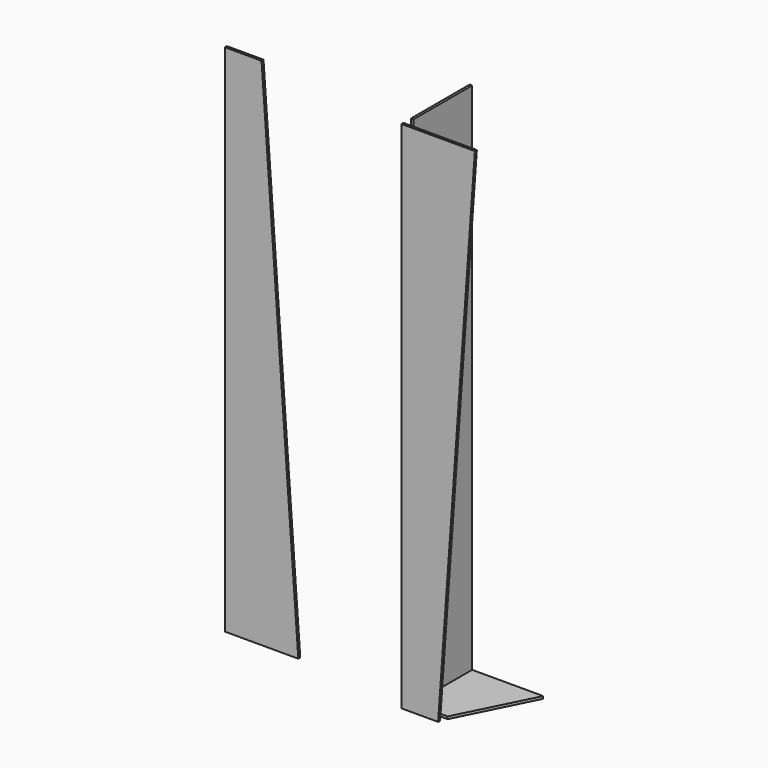
from build123d import *

# Parameters (mm, degrees)
F1_DEPTH = 2
F3_DEPTH = 2
F5_DEPTH = 2
F6_W     = 2
F6_H     = 60
F7_DEPTH = 420


with BuildPart() as f1:
    # F0 (on Top) → F1 (new body)
    with BuildSketch(Plane.XY):
        Polygon((213.668106, 69.724469), (153.668106, 69.724469), (153.668106, 9.724469), (183.668106, 9.724469), align=None)
    extrude(amount=F1_DEPTH)

    # F6 (on face) → F7 (join)
    with BuildSketch(Plane.XY.offset(2)):
        with Locations((154.668106, 39.724469)):
            Rectangle(F6_W, F6_H)
    extrude(amount=F7_DEPTH)


with BuildPart() as f3:
    # F2 (on Front) → F3 (new body)
    with BuildSketch(Plane.XZ):
        Polygon((153.668106, 2), (183.668106, 2), (213.668106, 422), (153.668106, 422), align=None)
    extrude(amount=-F3_DEPTH)


with BuildPart() as f5:
    # F4 (on Front) → F5 (new body)
    with BuildSketch(Plane.XZ):
        Polygon((11.109603, 11.618226), (71.109603, 11.618226), (41.109603, 431.618226), (11.109603, 431.618226), align=None)
    extrude(amount=F5_DEPTH)


solid = Compound([f1.part, f3.part, f5.part])
